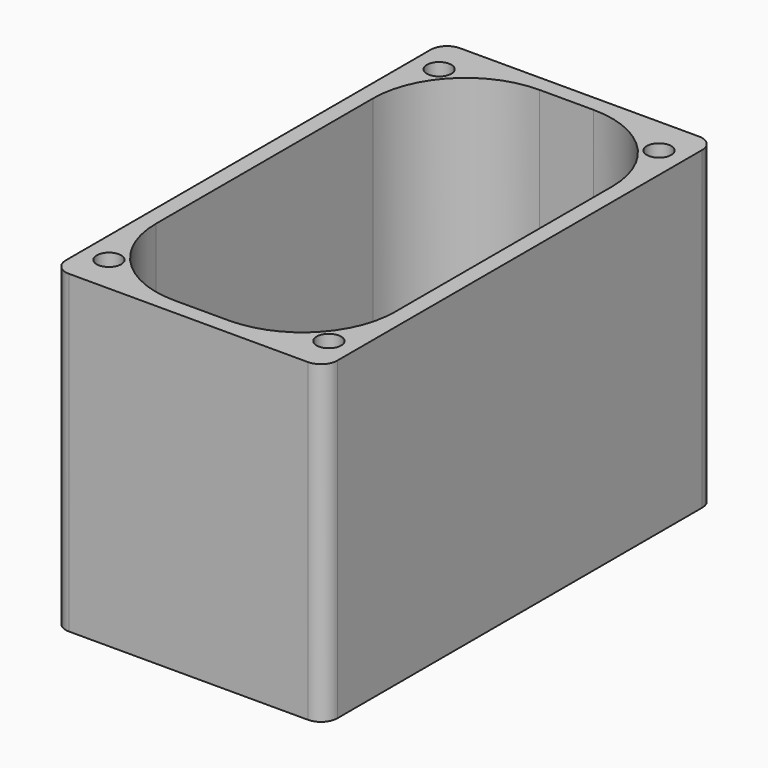
from build123d import *

# Parameters (mm, degrees)
F0_R     = 2.25
F1_DEPTH = 58


with BuildPart() as f1:
    # F0 (on Top) → F1 (new body)
    with BuildSketch(Plane.XY):
        with BuildLine():
            Line((-22, -45), (22, -45))
            ThreePointArc((22, -45), (24.12132, -44.12132), (25, -42))
            Line((25, -42), (25, 42))
            ThreePointArc((25, 42), (24.12132, 44.12132), (22, 45))
            Line((22, 45), (-22, 45))
            ThreePointArc((-22, 45), (-24.12132, 44.12132), (-25, 42))
            Line((-25, 42), (-25, -42))
            ThreePointArc((-25, -42), (-24.12132, -44.12132), (-22, -45))
        make_face()
        with Locations((-20.25, -38)):
            Circle(F0_R, mode=Mode.SUBTRACT)
        with Locations((20.25, -38)):
            Circle(F0_R, mode=Mode.SUBTRACT)
        with Locations((-20.25, 38)):
            Circle(F0_R, mode=Mode.SUBTRACT)
        with BuildLine():
            ThreePointArc((22, -25), (17.020815, -37.020815), (5, -42))
            Line((5, -42), (-5, -42))
            ThreePointArc((-5, -42), (-17.020815, -37.020815), (-22, -25))
            Line((-22, -25), (-22, 25))
            ThreePointArc((-22, 25), (-17.020815, 37.020815), (-5, 42))
            Line((-5, 42), (5, 42))
            ThreePointArc((5, 42), (17.020815, 37.020815), (22, 25))
            Line((22, 25), (22, -25))
        make_face(mode=Mode.SUBTRACT)
        with Locations((20.25, 38)):
            Circle(F0_R, mode=Mode.SUBTRACT)
    extrude(amount=F1_DEPTH)


solid = f1.part
